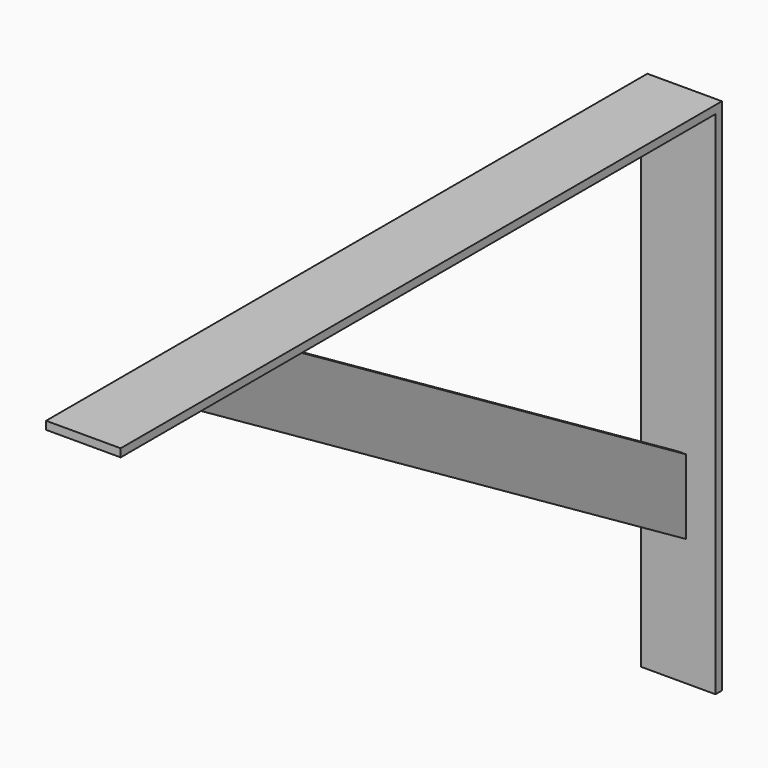
from build123d import *

# Parameters (mm, degrees)
F0_W     = 29.464
F0_H     = 296.926
F1_DEPTH = 3.175
F2_W     = 29.464
F2_H     = 204.978
F3_DEPTH = 3.175
F6_DEPTH = 3.175


with BuildPart() as f1:
    # F0 (on Top) → F1 (new body)
    with BuildSketch(Plane.XY):
        Rectangle(F0_W, F0_H)
    extrude(amount=F1_DEPTH)

    # F2 (on face) → F3 (join)
    with BuildSketch(Plane(origin=(0, 148.463, 0), x_dir=(-1, 0, 0), z_dir=(0, 1, 0))):
        with Locations((0, -99.314)):
            Rectangle(F2_W, F2_H)
    extrude(amount=-F3_DEPTH)

    # F5 (on offset) → F6 (join)
    with BuildSketch(Plane.YZ.offset(3.175)):
        Polygon((145.288, -151.575044), (145.288, -122.111044), (-60.823944, 0), (-110.556401, 0), align=None)
    extrude(amount=-F6_DEPTH)


solid = f1.part
